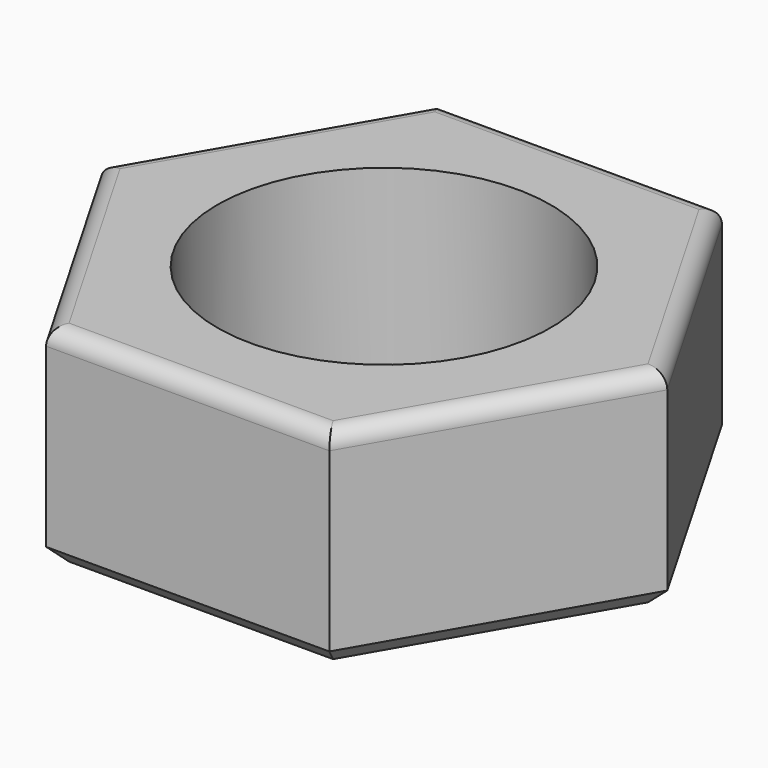
from build123d import *

# Parameters (mm, degrees)
F1_DEPTH = 6.3
F3_R     = 0.5
F4_D     = 10
F5_SIZE  = 0.5


with BuildPart() as f1:
    # F0 (on Top) → F1 (new body)
    with BuildSketch(Plane.XY):
        Polygon((4.25, -7.361216), (8.5, 0), (4.25, 7.361216), (-4.25, 7.361216), (-8.5, 0), (-4.25, -7.361216), align=None)
    extrude(amount=F1_DEPTH)

    # F3
    f3_edges = [f1.edges().sort_by_distance(p)[0] for p in [
        (0, -7.361216, 6.3),
        (6.375, -3.680608, 6.3),
        (6.375, 3.680608, 6.3),
        (0, 7.361216, 6.3),
        (-6.375, 3.680608, 6.3),
        (-6.375, -3.680608, 6.3),
    ]]
    fillet(f3_edges, radius=F3_R)

    # F4 (through all)
    with Locations(Plane(origin=(0, 0, 0), x_dir=(1, 0, 0), z_dir=(0, 0, -1))):
        with Locations((0, 0)):
            Hole(F4_D / 2)

    # F5
    f5_edges = [f1.edges().sort_by_distance(p)[0] for p in [
        (-6.375, 3.680608, 0),
        (0, 7.361216, 0),
        (-6.375, -3.680608, 0),
        (0, -7.361216, 0),
        (6.375, -3.680608, 0),
        (6.375, 3.680608, 0),
    ]]
    chamfer(f5_edges, length=F5_SIZE)


solid = f1.part
